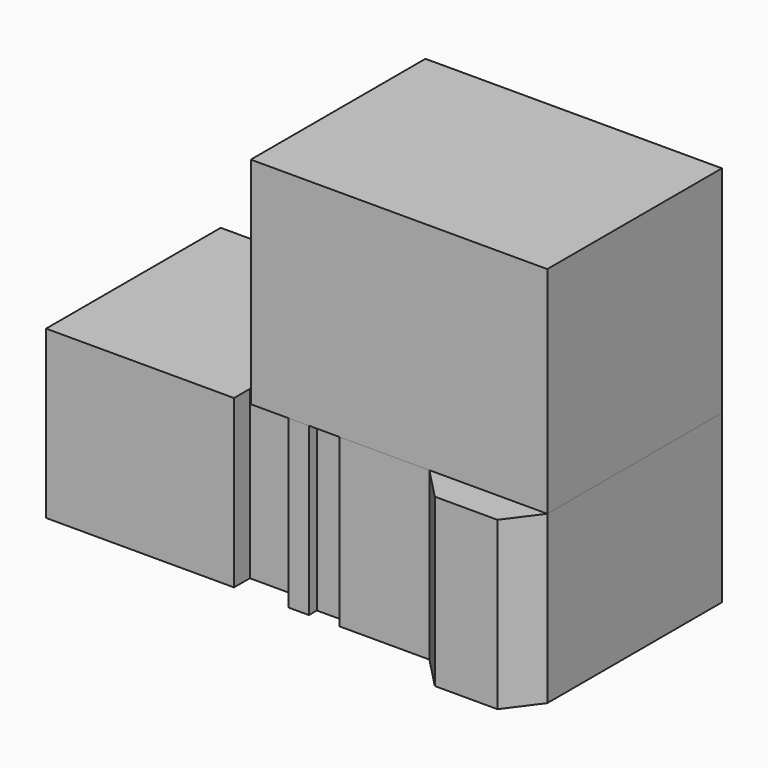
from build123d import *

# Parameters (mm, degrees)
F1_DEPTH = 44.359304
F2_W     = 78.878731
F2_H     = 58.075681
F3_DEPTH = 57.296641


with BuildPart() as f1:
    # F0 (on Top) → F1 (new body)
    with BuildSketch(Plane.XY):
        Polygon((68.865031, 58.075681), (-64.479768, 58.075681), (-64.479768, 0), (-14.483418, 0), (-14.483418, 5.278701), (0, 5.278701), (0, 0), (5.455442, 0), (5.455442, 2.63935), (13.638936, 2.63935), (13.638936, 0), (37.489772, 0), (45.823842, -8.596718), (62.491924, -8.596718), (68.865031, 0), align=None)
    extrude(amount=F1_DEPTH)

    # F2 (on face) → F3 (join)
    with BuildSketch(Plane.XY.offset(44.359304)):
        with Locations((29.425666, 29.03784)):
            Rectangle(F2_W, F2_H)
    extrude(amount=F3_DEPTH)


solid = f1.part
